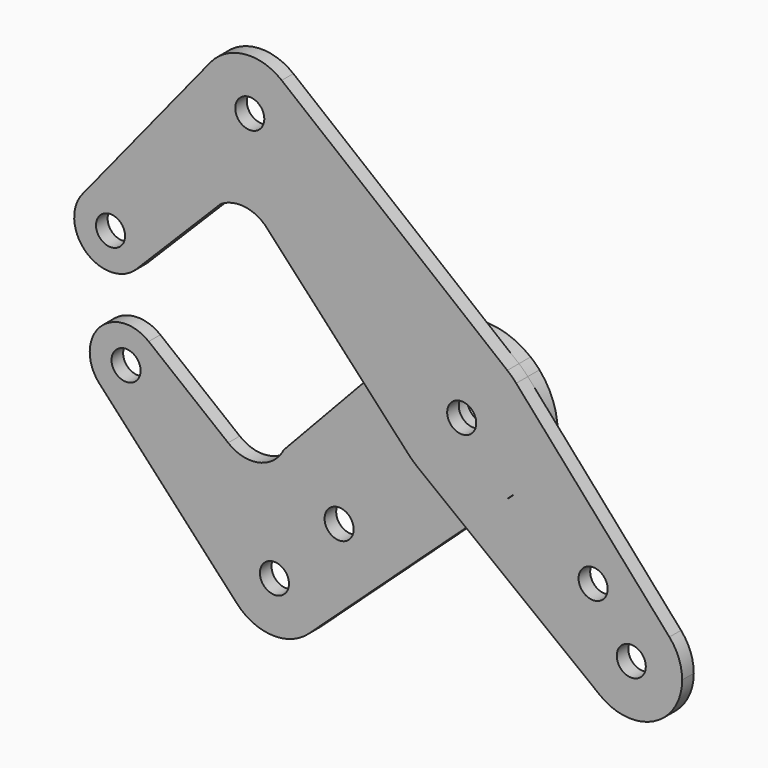
from build123d import *

# Parameters (mm, degrees)
F0_R     = 3.175
F0_R_2   = 3.9751
F1_DEPTH = 3.175
F2_DEPTH = 3.175


with BuildPart() as f1:
    # F0 (on Front) → F1 (new body)
    with BuildSketch(Plane.XZ):
        with BuildLine():
            ThreePointArc((-11.5754943551, 10.8638646639), (-1.0982765069, 15.8369635257), (9.9651048792, 12.3576822158))
            Line((9.9651048792, 12.3576822158), (-39.326404005, 52.1058362066))
            ThreePointArc((-39.326404005, 52.1058362066), (-36.2769159286, 48.2498093243), (-35.1894774204, 43.4554586555))
            ThreePointArc((-35.1894774204, 43.4554586555), (-50.0194052734, 32.9831911642), (-54.9273197436, 50.4619646362))
            Line((-54.9273197436, 50.4619646362), (-82.8817572815, 16.0487215903))
            ThreePointArc((-82.8817572815, 16.0487215903), (-74.06549287, 18.5242655264), (-68.7832984793, 11.0440744612))
            ThreePointArc((-68.7832984793, 11.0440744612), (-69.3830190753, 8.0173766453), (-71.0915566635, 5.4480452592))
            Line((-71.0915566635, 5.4480452592), (-52.6553578675, 23.9936634898))
            ThreePointArc((-52.6553578675, 23.9936634898), (-47.6406028735, 25.190916986), (-42.9458580911, 23.0600591749))
            Line((-42.9458580911, 23.0600591749), (-21.6961869906, 0.0802232898))
            Line((-21.6961869906, 0.0802232898), (-11.5754943551, 10.8638646639))
        make_face()
        with BuildLine():
            ThreePointArc((-68.7832984793, 11.0440744612), (-74.06549287, 18.5242655264), (-82.8817572815, 16.0487215903))
            ThreePointArc((-82.8817572815, 16.0487215903), (-82.0278000251, 5.1415630599), (-71.0915566635, 5.4480452592))
            ThreePointArc((-71.0915566635, 5.4480452592), (-69.3830190753, 8.0173766453), (-68.7832984793, 11.0440744612))
        make_face()
        with Locations((-76.7207984793, 11.0440744612)):
            Circle(F0_R, mode=Mode.SUBTRACT)
        with BuildLine():
            ThreePointArc((-35.1894774204, 43.4554586555), (-36.2769159286, 48.2498093243), (-39.326404005, 52.1058362066))
            ThreePointArc((-39.326404005, 52.1058362066), (-47.4664570455, 54.5067772851), (-54.9273197436, 50.4619646362))
            ThreePointArc((-54.9273197436, 50.4619646362), (-50.0194052734, 32.9831911642), (-35.1894774204, 43.4554586555))
        make_face()
        with Locations((-46.3019774204, 43.4554586555)):
            Circle(F0_R, mode=Mode.SUBTRACT)
        with BuildLine():
            ThreePointArc((11.5754943551, -10.8638646639), (14.7610399005, -5.8418598114), (15.875, 0))
            ThreePointArc((15.875, 0), (14.8483584497, 5.6162154828), (11.9012203024, 10.5060259049))
            ThreePointArc((11.9012203024, 10.5060259049), (10.9722924683, 11.4727687587), (9.9651048792, 12.3576822158))
            ThreePointArc((9.9651048792, 12.3576822158), (-1.0982765069, 15.8369635257), (-11.5754943551, 10.8638646639))
            ThreePointArc((-11.5754943551, 10.8638646639), (-15.8748914791, 0.0586986101), (-11.6555166592, -10.7779662463))
            ThreePointArc((-11.6555166592, -10.7779662463), (-10.7295215713, -11.7001278562), (-9.7308151108, -12.5430005293))
            ThreePointArc((-9.7308151108, -12.5430005293), (0.0677764348, -15.8748553176), (9.8375611099, -12.4594549002))
            Line((9.8375611099, -12.4594549002), (11.5754943551, -10.8638646639))
        make_face()
        Circle(F0_R_2, mode=Mode.SUBTRACT)
        with BuildLine():
            ThreePointArc((11.9012203024, 10.5060259049), (14.8483584497, 5.6162154828), (15.875, 0))
            ThreePointArc((15.875, 0), (14.7610399005, -5.8418598114), (11.5754943551, -10.8638646639))
            ThreePointArc((11.5754943551, -10.8638646639), (10.7362103713, -11.6939904166), (9.8375611099, -12.4594549002))
            Line((9.8375611099, -12.4594549002), (0.8259979581, -20.7329384866))
            Line((0.8259979581, -20.7329384866), (30.2300113588, -43.5444672949))
            ThreePointArc((30.2300113588, -43.5444672949), (28.9387358878, -27.1596616597), (45.372436148, -27.410148791))
            Line((45.372436148, -27.410148791), (11.9012203024, 10.5060259049))
        make_face()
        with Locations((28.7048580711, -22.5858663362)):
            Circle(F0_R, mode=Mode.SUBTRACT)
        with BuildLine():
            ThreePointArc((-11.6555166592, -10.7779662463), (-15.8748914791, 0.0586986101), (-11.5754943551, 10.8638646639))
            Line((-11.5754943551, 10.8638646639), (-21.6961869906, 0.0802232898))
            Line((-21.6961869906, 0.0802232898), (-11.6555166592, -10.7779662463))
        make_face()
        with BuildLine():
            Line((0.8259979581, -20.7329384866), (9.8375611099, -12.4594549002))
            ThreePointArc((9.8375611099, -12.4594549002), (0.0677764348, -15.8748553176), (-9.7308151108, -12.5430005293))
            Line((-9.7308151108, -12.5430005293), (0.8259979581, -20.7329384866))
        make_face()
        with BuildLine():
            ThreePointArc((48.1540819363, -34.7643669244), (47.4354328511, -30.8330160864), (45.372436148, -27.410148791))
            ThreePointArc((45.372436148, -27.410148791), (28.9387358878, -27.1596616597), (30.2300113588, -43.5444672949))
            ThreePointArc((30.2300113588, -43.5444672949), (41.9300417248, -44.7438767894), (48.1540819363, -34.7643669244))
        make_face()
        with Locations((37.0415819363, -34.7643669244)):
            Circle(F0_R, mode=Mode.SUBTRACT)
        Circle(F0_R_2)
        Circle(F0_R, mode=Mode.SUBTRACT)
    extrude(amount=F1_DEPTH)


with BuildPart() as f2:
    # F0 (on Front) → F2 (new body)
    with BuildSketch(Plane.XZ):
        with BuildLine():
            ThreePointArc((-70.9163226468, -9.6786212484), (-81.6783113083, -10.4766102732), (-81.6983110042, -21.2681248307))
            ThreePointArc((-81.6983110042, -21.2681248307), (-72.9757679827, -23.275422074), (-67.9293428498, -15.8831563616))
            ThreePointArc((-67.9293428498, -15.8831563616), (-68.7149668595, -12.4401088642), (-70.9163226468, -9.6786212484))
        make_face()
        with Locations((-75.8668428498, -15.8831563616)):
            Circle(F0_R, mode=Mode.SUBTRACT)
        with BuildLine():
            Line((0.8259979581, -20.7329384866), (-9.7308151108, -12.5430005293))
            ThreePointArc((-9.7308151108, -12.5430005293), (-10.7295215713, -11.7001278562), (-11.6555166592, -10.7779662463))
            Line((-11.6555166592, -10.7779662463), (-21.6961869906, 0.0802232898))
            Line((-21.6961869906, 0.0802232898), (-41.4160788059, -20.9314059466))
            ThreePointArc((-41.4160788059, -20.9314059466), (-46.8687263303, -25.1494120561), (-53.5673584849, -23.5211406344))
            Line((-53.5673584849, -23.5211406344), (-70.9163226468, -9.6786212484))
            ThreePointArc((-70.9163226468, -9.6786212484), (-68.7149668595, -12.4401088642), (-67.9293428498, -15.8831563616))
            ThreePointArc((-67.9293428498, -15.8831563616), (-72.9757679827, -23.275422074), (-81.6983110042, -21.2681248307))
            Line((-81.6983110042, -21.2681248307), (-51.6195140717, -53.8409332772))
            ThreePointArc((-51.6195140717, -53.8409332772), (-47.5029634694, -35.952805423), (-32.3429586555, -46.3019774204))
            ThreePointArc((-32.3429586555, -46.3019774204), (-33.2819156965, -50.7726238963), (-35.9401113956, -54.487770712))
            Line((-35.9401113956, -54.487770712), (0.8259979581, -20.7329384866))
        make_face()
        with Locations((-29.3237435007, -31.2445743633)):
            Circle(F0_R, mode=Mode.SUBTRACT)
        with BuildLine():
            ThreePointArc((-51.6195140717, -53.8409332772), (-43.9135036694, -57.4050333518), (-35.9401113956, -54.487770712))
            ThreePointArc((-35.9401113956, -54.487770712), (-33.2819156965, -50.7726238963), (-32.3429586555, -46.3019774204))
            ThreePointArc((-32.3429586555, -46.3019774204), (-47.5029634694, -35.952805423), (-51.6195140717, -53.8409332772))
        make_face()
        with Locations((-43.4554586555, -46.3019774204)):
            Circle(F0_R, mode=Mode.SUBTRACT)
        with BuildLine():
            ThreePointArc((11.5754943551, -10.8638646639), (14.7610399005, -5.8418598114), (15.875, 0))
            ThreePointArc((15.875, 0), (14.8483584497, 5.6162154828), (11.9012203024, 10.5060259049))
            ThreePointArc((11.9012203024, 10.5060259049), (10.9722924683, 11.4727687587), (9.9651048792, 12.3576822158))
            ThreePointArc((9.9651048792, 12.3576822158), (-1.0982765069, 15.8369635257), (-11.5754943551, 10.8638646639))
            ThreePointArc((-11.5754943551, 10.8638646639), (-15.8748914791, 0.0586986101), (-11.6555166592, -10.7779662463))
            ThreePointArc((-11.6555166592, -10.7779662463), (-10.7295215713, -11.7001278562), (-9.7308151108, -12.5430005293))
            ThreePointArc((-9.7308151108, -12.5430005293), (0.0677764348, -15.8748553176), (9.8375611099, -12.4594549002))
            Line((9.8375611099, -12.4594549002), (11.5754943551, -10.8638646639))
        make_face()
        Circle(F0_R_2, mode=Mode.SUBTRACT)
        with BuildLine():
            ThreePointArc((-11.6555166592, -10.7779662463), (-15.8748914791, 0.0586986101), (-11.5754943551, 10.8638646639))
            Line((-11.5754943551, 10.8638646639), (-21.6961869906, 0.0802232898))
            Line((-21.6961869906, 0.0802232898), (-11.6555166592, -10.7779662463))
        make_face()
        with BuildLine():
            Line((0.8259979581, -20.7329384866), (9.8375611099, -12.4594549002))
            ThreePointArc((9.8375611099, -12.4594549002), (0.0677764348, -15.8748553176), (-9.7308151108, -12.5430005293))
            Line((-9.7308151108, -12.5430005293), (0.8259979581, -20.7329384866))
        make_face()
    extrude(amount=-F2_DEPTH)


solid = Compound([f1.part, f2.part])
